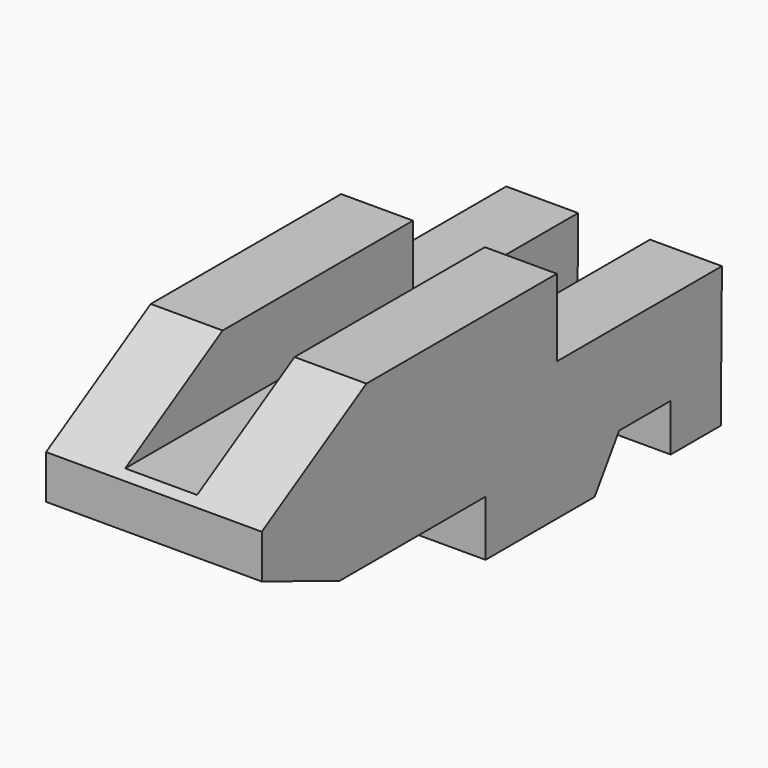
from build123d import *

# Parameters (mm, degrees)
F1_DEPTH = 76.2
F3_DEPTH = 25.4
F4_W     = 25.4
F4_H     = 72.922583
F5_DEPTH = 50.8


with BuildPart() as f1:
    # F0 (on Right) → F1 (new body)
    with BuildSketch(Plane.YZ):
        Polygon((72.430962, -49.407096), (72.922583, 0), (0, 0), (0, 27.284516), (-84.065805, 27.284516), (-130.277417, 0), (-130.277417, -15.485805), (-95.864509, -29.250969), (-31.463226, -29.250969), (-31.463226, -48.915484), (0, -48.915484), (16.714839, -48.915484), (27.530323, -32.69226), (50.308392, -32.69226), (50.308392, -49.407096), align=None)
    extrude(amount=F1_DEPTH)

    # F2 (on face) → F3 (cut)
    with BuildSketch(Plane.XY.offset(27.284516)):
        Polygon((25.4, 73.632836), (25.4, 0), (25.4, -129.52067), (50.8, -129.52067), (50.8, 0), (50.8, 73.632836), align=None)
    extrude(amount=-F3_DEPTH, mode=Mode.SUBTRACT)

    # F4 (on face) → F5 (cut)
    with BuildSketch(Plane.XY):
        with Locations((38.1, 36.461292)):
            Rectangle(F4_W, F4_H)
    extrude(amount=-F5_DEPTH, mode=Mode.SUBTRACT)


solid = f1.part
